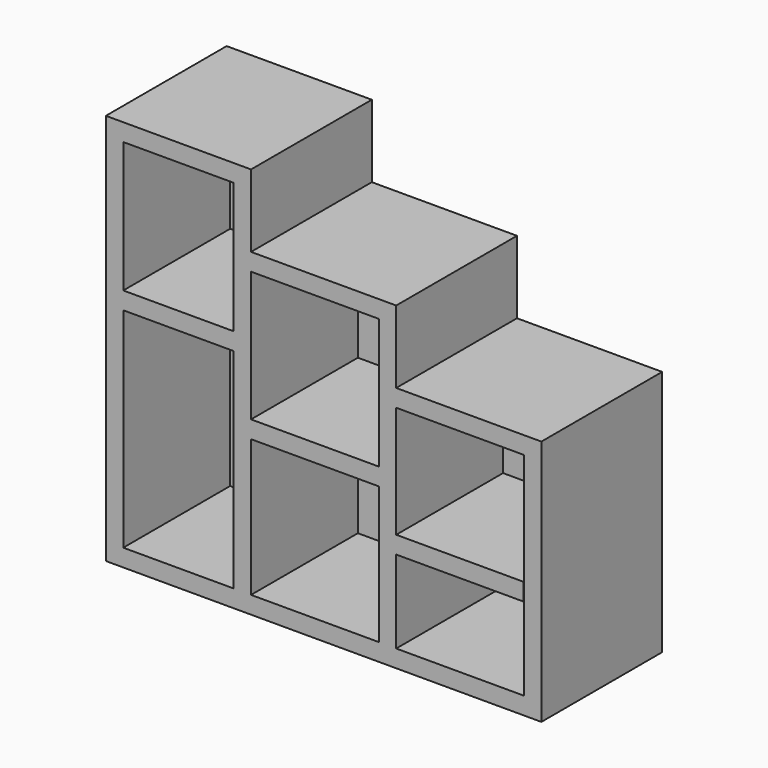
from build123d import *

# Parameters (mm, degrees)
F1_DEPTH = 104
F2_T     = -12
F3_W     = 12
F3_H     = 196
F3_H_2   = 146
F4_DEPTH = 92
F5_W     = 76
F5_H     = 12
F5_W_2   = 89.8888036609
F5_W_3   = 87.8371410072
F6_DEPTH = 92


with BuildPart() as f1:
    # F0 (on Front) → F1 (new body)
    with BuildSketch(Plane.XZ):
        Polygon((-189.3542973706, 100), (-189.3542973706, -170), (110.6457026294, -170), (110.6457026294, 0), (10.6457026294, 0), (10.6457026294, 50), (-89.3542973706, 50), (-89.3542973706, 100), align=None)
    extrude(amount=F1_DEPTH)

    # F2
    f2_openings = [f1.faces().sort_by_distance(p)[0] for p in [
        (-54.505813, -104, -56.212121),
    ]]
    offset(amount=F2_T, openings=f2_openings, kind=Kind.INTERSECTION)

    # F3 (on face) → F4 (join)
    with BuildSketch(Plane.XZ.offset(12)):
        with Locations((-95.3542973706, -60)):
            Rectangle(F3_W, F3_H)
        with Locations((4.6457026294, -85)):
            Rectangle(F3_W, F3_H_2)
    extrude(amount=F4_DEPTH)

    # F5 (on face) → F6 (join)
    with BuildSketch(Plane.XZ.offset(12)):
        with Locations((-139.3542973706, -8.0260672197)):
            Rectangle(F5_W, F5_H)
        with Locations((-44.9444018304, -57.5752230883)):
            Rectangle(F5_W_2, F5_H)
        with Locations((54.2541909963, -95.0186225176)):
            Rectangle(F5_W_3, F5_H)
    extrude(amount=F6_DEPTH)


solid = f1.part
